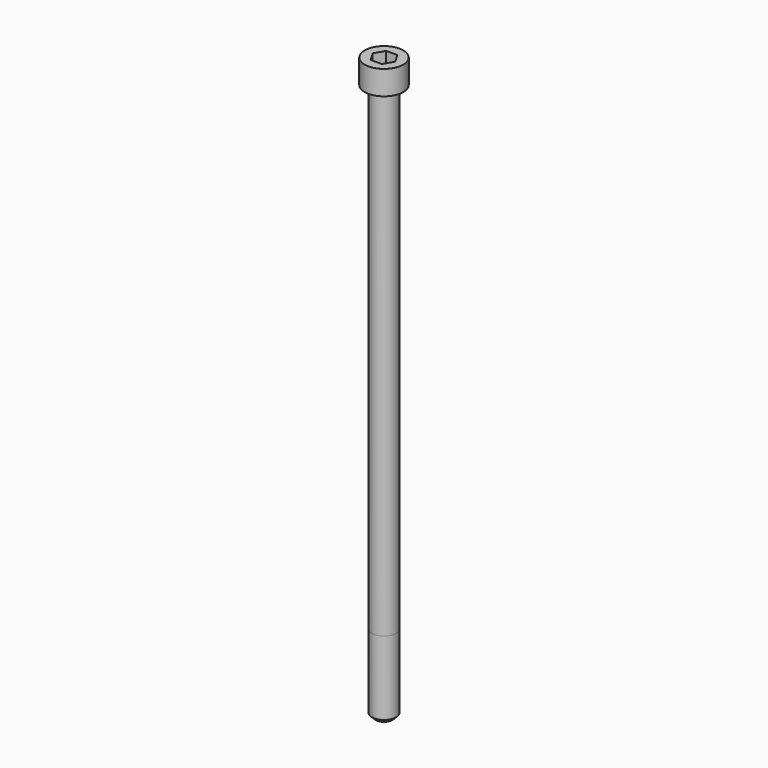
from build123d import *

# Parameters (mm, degrees)
POCKET_DEPTH = 8.07


with BuildPart() as part:
    # Sketch → Revolve (revolve)
    with BuildSketch(Plane.YZ):
        with BuildLine():
            Line((4.999, 0), (8, 0))
            Line((8, 0), (8, 9.97229))
            ThreePointArc((8, 9.97229), (7.991884, 9.991884), (7.97229, 10))
            Line((7.97229, 10), (0, 10))
            Line((0, -230), (0, 10))
            Line((3.5, -230), (0, -230))
            Line((5, -228.5), (3.5, -230))
            Line((5, -198), (5, -228.5))
            Line((4.999, 0), (5, -198))
        make_face()
    revolve(axis=Axis((0, 0, 0), (0, 0, 1)))

    # Sketch001 → Pocket (cut)
    with BuildSketch(Plane.XY.offset(10)):
        Polygon((4.659217, 0), (2.329608, 4.035), (-2.329608, 4.035), (-4.659217, 0), (-2.329608, -4.035), (2.329608, -4.035), align=None)
    extrude(amount=-POCKET_DEPTH, mode=Mode.SUBTRACT)


solid = part.part
